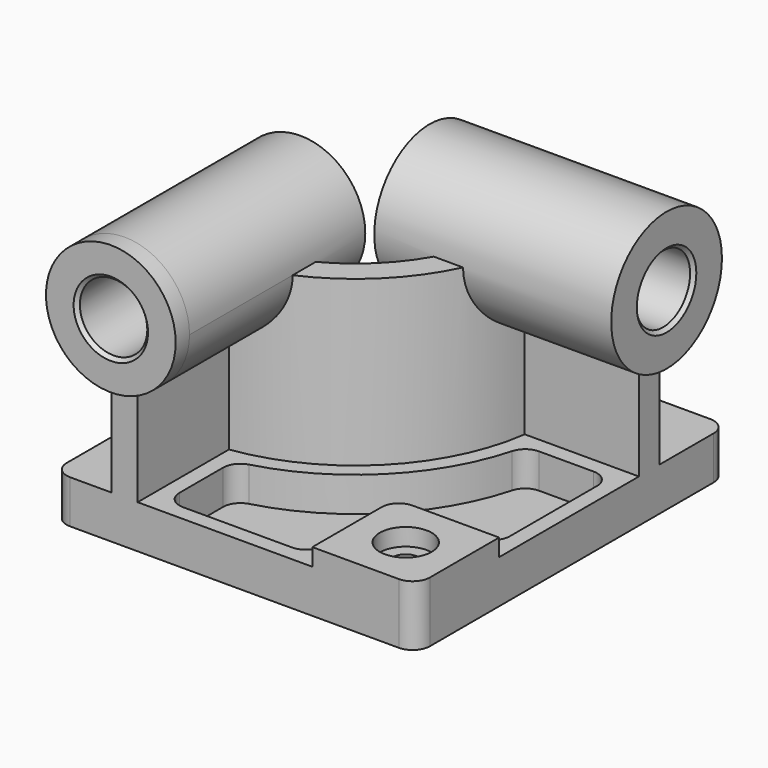
from build123d import *

# Parameters (mm, degrees)
F0_W            = 210
F0_H            = 225
F1_DEPTH        = 25
F3_DEPTH        = 95
F4_R            = 37.5
F5_DEPTH        = 10
F5_DEPTH_BACK   = 127
F6_R            = 40
F7_DEPTH        = 10
F7_DEPTH_BACK   = 127
F8_W            = 60
F8_H            = 60
F9_DEPTH        = 10
F10_R           = 10
F12_DEPTH       = 20
F14_D           = 15
F14_CBORE_D     = 30
F14_CBORE_DEPTH = 10
F15_R           = 10
F16_R           = 19.5
F17_DEPTH       = 235.001
F18_R           = 19.5
F19_DEPTH       = 220.001
F20_SIZE        = 2
F21_R           = 10


with BuildPart() as f1:
    # F0 (on Top) → F1 (new body)
    with BuildSketch(Plane.XY):
        Rectangle(F0_W, F0_H)
    extrude(amount=F1_DEPTH)

    # F2 (on face) → F3 (join)
    with BuildSketch(Plane.XY.offset(25)):
        with BuildLine():
            Line((-71, -32.5), (-71, -112.5))
            Line((-71, -112.5), (-56, -112.5))
            Line((-56, -112.5), (-56, -46.481817))
            ThreePointArc((-56, -46.481817), (7.488853, -14.988853), (38.981817, 48.5))
            Line((38.981817, 48.5), (105, 48.5))
            Line((105, 48.5), (105, 63.5))
            Line((105, 63.5), (25, 63.5))
            ThreePointArc((25, 63.5), (-3.117749, -4.382251), (-71, -32.5))
        make_face()
    extrude(amount=F3_DEPTH)

    # F4 (on face) → F5 (join, two sides)
    with BuildSketch(Plane.XZ.offset(112.5)) as f5_sk:
        with Locations((-63.5, 120)):
            Circle(F4_R)
    extrude(amount=F5_DEPTH)
    extrude(f5_sk.sketch, amount=-F5_DEPTH_BACK)

    # F6 (on face) → F7 (join, two sides)
    with BuildSketch(Plane.YZ.offset(105)) as f7_sk:
        with Locations((56, 120)):
            Circle(F6_R)
    extrude(amount=F7_DEPTH)
    extrude(f7_sk.sketch, amount=-F7_DEPTH_BACK)

    # F8 (on face) → F9 (join)
    with BuildSketch(Plane.XY.offset(25)):
        with Locations((75, -82.5)):
            Rectangle(F8_W, F8_H)
    extrude(amount=F9_DEPTH)

    # F10
    f10_edges = [f1.edges().sort_by_distance(p)[0] for p in [
        (45, -52.5, 30),
    ]]
    fillet(f10_edges, radius=F10_R)

    # F11 (on face) → F12 (cut)
    with BuildSketch(Plane.XY.offset(25)):
        with BuildLine():
            ThreePointArc((46.575508, 39.5), (13.852814, -21.352814), (-47, -54.075508))
            Line((-47, -54.075508), (-47, -103.5))
            Line((-47, -103.5), (36, -103.5))
            Line((36, -103.5), (36, -62.5))
            ThreePointArc((36, -62.5), (41.564971, -49.064971), (55, -43.5))
            Line((55, -43.5), (96, -43.5))
            Line((96, -43.5), (96, 39.5))
            Line((96, 39.5), (46.575508, 39.5))
        make_face()
    extrude(amount=-F12_DEPTH, mode=Mode.SUBTRACT)

    # F14 (through all)
    with Locations(Plane.XY.offset(35)):
        with Locations((75, -82.5)):
            CounterBoreHole(F14_D / 2, F14_CBORE_D / 2, F14_CBORE_DEPTH)

    # F15
    f15_edges = [f1.edges().sort_by_distance(p)[0] for p in [
        (-47, -54.075508, 15),
        (46.575508, 39.5, 15),
        (96, 39.5, 15),
        (96, -43.5, 15),
        (36, -103.5, 15),
        (-47, -103.5, 15),
    ]]
    fillet(f15_edges, radius=F15_R)

    # F16 (on face) → F17 (cut, through all)
    with BuildSketch(Plane.XZ.offset(122.5)):
        with Locations((-63.5, 120)):
            Circle(F16_R)
    extrude(amount=-F17_DEPTH, mode=Mode.SUBTRACT)

    # F18 (on face) → F19 (cut, through all)
    with BuildSketch(Plane.YZ.offset(115)):
        with Locations((56, 120)):
            Circle(F18_R)
    extrude(amount=-F19_DEPTH, mode=Mode.SUBTRACT)

    # F20
    f20_edges = [f1.edges().sort_by_distance(p)[0] for p in [
        (-83, -122.5, 120),
        (115, 36.5, 120),
        (-83, 14.5, 120),
        (-22, 36.5, 120),
    ]]
    chamfer(f20_edges, length=F20_SIZE)

    # F21
    f21_edges = [f1.edges().sort_by_distance(p)[0] for p in [
        (105, -112.5, 17.5),
        (105, 112.5, 12.5),
        (-105, 112.5, 12.5),
        (-105, -112.5, 12.5),
    ]]
    fillet(f21_edges, radius=F21_R)


solid = f1.part
